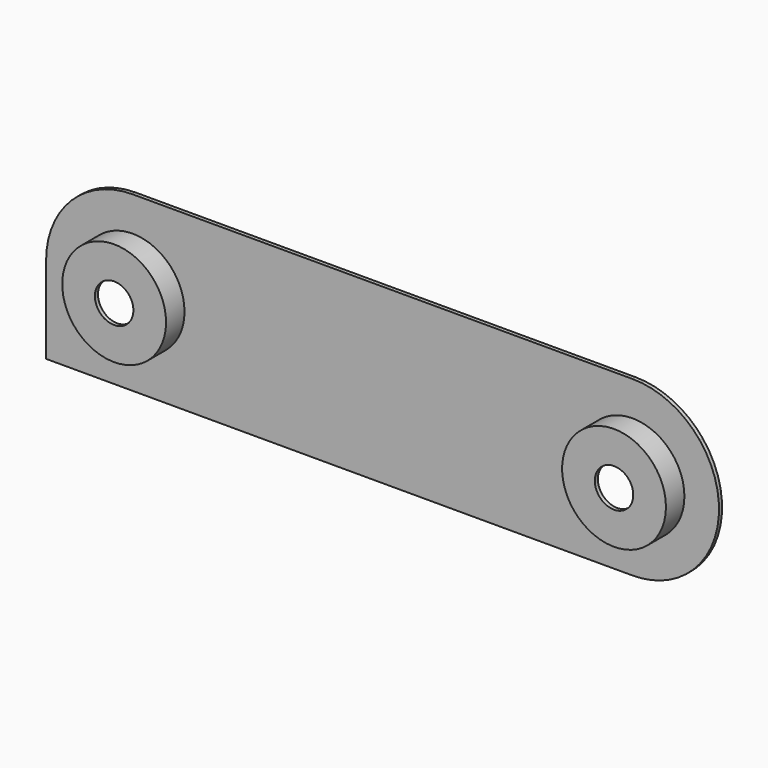
from build123d import *

# Parameters (mm, degrees)
F0_W      = 165
F0_H      = 45
F0_R      = 12.5
F1_DEPTH  = 1
F3_DEPTH  = 1
F4_DEPTH  = 25
F5_DEPTH  = 25
F6_R      = 13.5
F6_R_2    = 12.5
F7_DEPTH  = 5
F8_R      = 13.5
F8_R_2    = 5
F9_DEPTH  = 1
F11_DEPTH = 1


with BuildPart() as f1:
    # F0 (on Front) → F1 (new body)
    with BuildSketch(Plane.XZ):
        Rectangle(F0_W, F0_H)
        with Locations((-65, 0)):
            Circle(F0_R, mode=Mode.SUBTRACT)
        with Locations((65, 0)):
            Circle(F0_R, mode=Mode.SUBTRACT)
    extrude(amount=F1_DEPTH)

    # F2 (on face) → F3 (join)
    with BuildSketch(Plane.XZ.offset(1)):
        with BuildLine():
            Line((68.3925151825, -19.0988145769), (65, -22.5))
            ThreePointArc((65, -22.5), (87.5, 0), (65, 22.5))
            Line((65, 22.5), (71.474224329, 16.2770561874))
            Line((71.474224329, 16.2770561874), (77.4062722921, 9.1145541519))
            Line((77.4062722921, 9.1145541519), (80.3926512599, 2.1407562308))
            Line((80.3926512599, 2.1407562308), (80.3926512599, -5.2317115478))
            Line((80.3926512599, -5.2317115478), (78.3914923668, -12.1520543471))
            Line((78.3914923668, -12.1520543471), (74.6632069349, -14.4081749022))
            Line((74.6632069349, -14.4081749022), (68.3925151825, -19.0988145769))
        make_face()
        with BuildLine():
            Line((-65, 14.9617949501), (-65, 22.5))
            ThreePointArc((-65, 22.5), (-87.5, 0), (-65, -22.5))
            Line((-65, -22.5), (-67.4760043621, -15.6979020685))
            Line((-67.4760043621, -15.6979020685), (-72.8440880775, -12.9142012447))
            Line((-72.8440880775, -12.9142012447), (-76.5851810575, -7.8018400818))
            Line((-76.5851810575, -7.8018400818), (-79.5639529824, 0))
            Line((-79.5639529824, 0), (-79.5639529824, 6.4657721668))
            Line((-79.5639529824, 6.4657721668), (-75.4495188594, 11.7608513683))
            Line((-75.4495188594, 11.7608513683), (-65, 14.9617949501))
        make_face()
    extrude(amount=-F3_DEPTH)

    # F2 (on face) → F4 (cut)
    with BuildSketch(Plane.XZ.offset(1)):
        with BuildLine():
            Line((-82.5, 22.5), (-82.5, 14.1421356237))
            ThreePointArc((-82.5, 14.1421356237), (-74.6966991411, 20.3033008589), (-65, 22.5))
            Line((-65, 22.5), (-82.5, 22.5))
        make_face()
    extrude(amount=-F4_DEPTH, mode=Mode.SUBTRACT)

    # F2 (on face) → F5 (cut)
    with BuildSketch(Plane.XZ.offset(1)):
        with BuildLine():
            ThreePointArc((82.5, -14.1421356237), (74.6966991411, -20.3033008589), (65, -22.5))
            Line((65, -22.5), (82.5, -22.5))
            Line((82.5, -22.5), (82.5, -14.1421356237))
        make_face()
        with BuildLine():
            ThreePointArc((65, 22.5), (74.6966991411, 20.3033008589), (82.5, 14.1421356237))
            Line((82.5, 14.1421356237), (82.5, 22.5))
            Line((82.5, 22.5), (65, 22.5))
        make_face()
        with BuildLine():
            Line((-82.5, -22.5), (-65, -22.5))
            ThreePointArc((-65, -22.5), (-74.6966991411, -20.3033008589), (-82.5, -14.1421356237))
            Line((-82.5, -14.1421356237), (-82.5, -22.5))
        make_face()
    extrude(amount=-F5_DEPTH, mode=Mode.SUBTRACT)

    # F6 (on face) → F7 (join)
    with BuildSketch(Plane.XZ.offset(1)):
        with Locations((-65, 0)):
            Circle(F6_R)
        with Locations((-65, 0)):
            Circle(F6_R_2, mode=Mode.SUBTRACT)
        with Locations((65, 0)):
            Circle(F6_R)
        with Locations((65, 0)):
            Circle(F6_R_2, mode=Mode.SUBTRACT)
    extrude(amount=F7_DEPTH)

    # F8 (on face) → F9 (join)
    with BuildSketch(Plane.XZ.offset(6)):
        with Locations((-65, 0)):
            Circle(F8_R)
        with Locations((-65, 0)):
            Circle(F8_R_2, mode=Mode.SUBTRACT)
        with Locations((65, 0)):
            Circle(F8_R)
        with Locations((65, 0)):
            Circle(F8_R_2, mode=Mode.SUBTRACT)
    extrude(amount=F9_DEPTH)

    # F10 (on face) → F11 (join)
    with BuildSketch(Plane.XZ.offset(1)):
        Polygon((-81.9395110011, 0), (-87.5, 0), (-87.5, -22.5), (-65, -22.5), (-65, -18.5897927731), (-73.3228996396, -16.0001199692), (-80.1934376359, -9.6208481118), align=None)
    extrude(amount=-F11_DEPTH)


solid = f1.part
